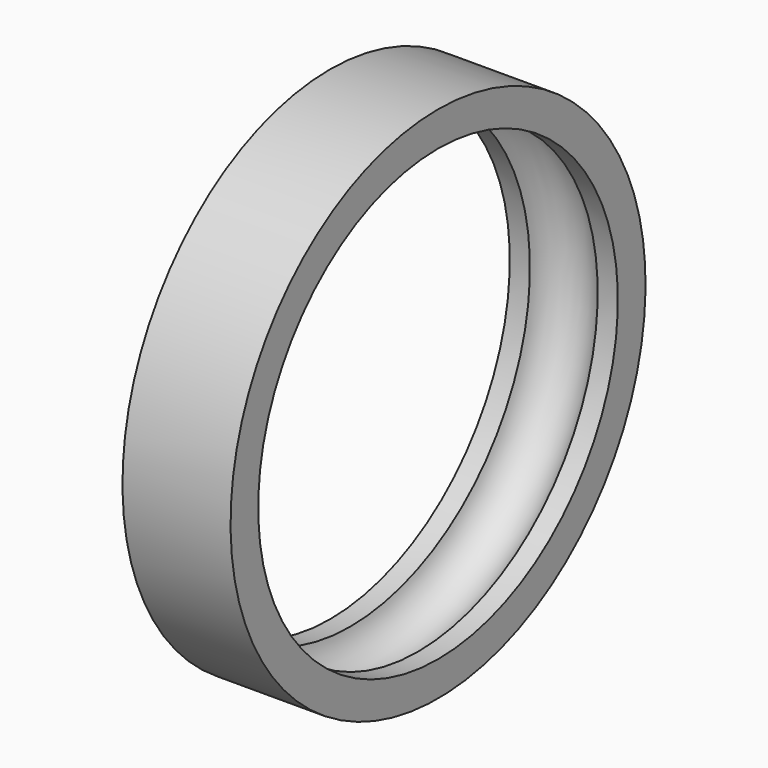
from build123d import *


with BuildPart() as f1:
    # F0 (on Front) → F1 (revolve)
    with BuildSketch(Plane.XZ):
        with BuildLine():
            Line((1.984375, 9.525), (-1.984375, 9.525))
            Line((-1.984375, 9.525), (-1.984375, 8.255))
            Line((-1.984375, 8.255), (-1.244341, 8.255))
            ThreePointArc((-1.244341, 8.255), (0, 9.271), (1.244341, 8.255))
            Line((1.244341, 8.255), (1.984375, 8.255))
            Line((1.984375, 8.255), (1.984375, 9.525))
        make_face()
    revolve(axis=Axis((1.690729, 0, 0), (1, 0, 0)))


solid = f1.part
